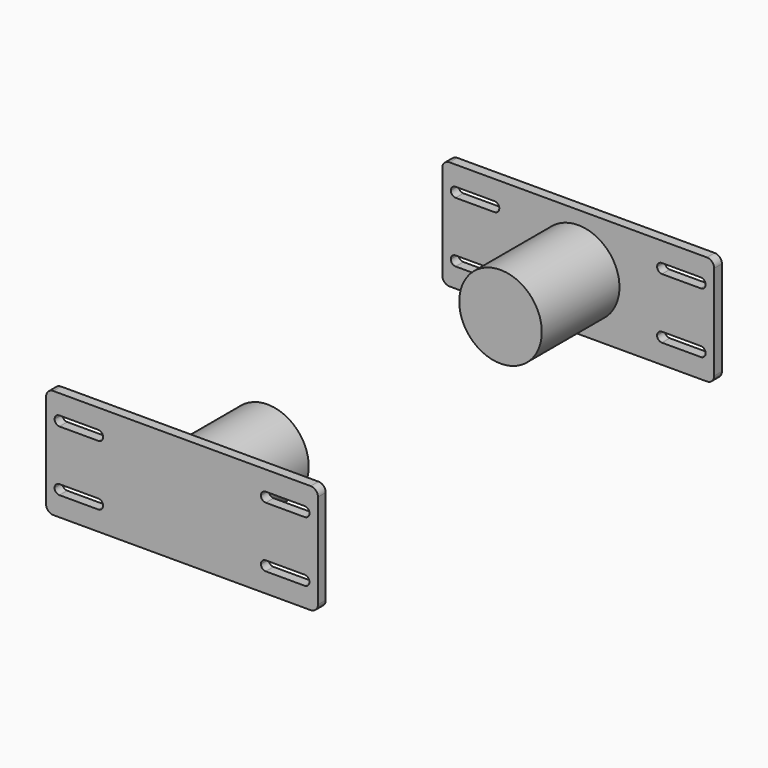
from build123d import *

# Parameters (mm, degrees)
F1_DEPTH = 4
F2_R     = 17
F3_DEPTH = 40


with BuildPart() as f1:
    # F0 (on Front) → F1 (new body)
    with BuildSketch(Plane.XZ):
        with BuildLine():
            ThreePointArc((56, 19.5), (55.12132, 21.62132), (53, 22.5))
            Line((53, 22.5), (-53, 22.5))
            ThreePointArc((-53, 22.5), (-55.12132, 21.62132), (-56, 19.5))
            Line((-56, 19.5), (-56, -19.5))
            ThreePointArc((-56, -19.5), (-55.12132, -21.62132), (-53, -22.5))
            Line((-53, -22.5), (53, -22.5))
            ThreePointArc((53, -22.5), (55.12132, -21.62132), (56, -19.5))
            Line((56, -19.5), (56, 19.5))
        make_face()
        with BuildLine():
            ThreePointArc((-34.5, -10.45), (-33.085786, -11.035786), (-32.5, -12.45))
            ThreePointArc((-32.5, -12.45), (-33.085786, -13.864214), (-34.5, -14.45))
            Line((-34.5, -14.45), (-50.5, -14.45))
            ThreePointArc((-50.5, -14.45), (-51.914214, -13.864214), (-52.5, -12.45))
            ThreePointArc((-52.5, -12.45), (-51.914214, -11.035786), (-50.5, -10.45))
            Line((-50.5, -10.45), (-34.5, -10.45))
        make_face(mode=Mode.SUBTRACT)
        with BuildLine():
            ThreePointArc((32.5, -12.45), (33.085786, -11.035786), (34.5, -10.45))
            Line((34.5, -10.45), (50.5, -10.45))
            ThreePointArc((50.5, -10.45), (51.914214, -11.035786), (52.5, -12.45))
            ThreePointArc((52.5, -12.45), (51.914214, -13.864214), (50.5, -14.45))
            Line((50.5, -14.45), (34.5, -14.45))
            ThreePointArc((34.5, -14.45), (33.085786, -13.864214), (32.5, -12.45))
        make_face(mode=Mode.SUBTRACT)
        with BuildLine():
            Line((-34.5, 10.45), (-50.5, 10.45))
            ThreePointArc((-50.5, 10.45), (-51.914214, 11.035786), (-52.5, 12.45))
            ThreePointArc((-52.5, 12.45), (-51.914214, 13.864214), (-50.5, 14.45))
            Line((-50.5, 14.45), (-34.5, 14.45))
            ThreePointArc((-34.5, 14.45), (-33.085786, 13.864214), (-32.5, 12.45))
            ThreePointArc((-32.5, 12.45), (-33.085786, 11.035786), (-34.5, 10.45))
        make_face(mode=Mode.SUBTRACT)
        with BuildLine():
            ThreePointArc((32.5, 12.45), (33.085786, 13.864214), (34.5, 14.45))
            Line((34.5, 14.45), (50.5, 14.45))
            ThreePointArc((50.5, 14.45), (51.914214, 13.864214), (52.5, 12.45))
            ThreePointArc((52.5, 12.45), (51.914214, 11.035786), (50.5, 10.45))
            Line((50.5, 10.45), (34.5, 10.45))
            ThreePointArc((34.5, 10.45), (33.085786, 11.035786), (32.5, 12.45))
        make_face(mode=Mode.SUBTRACT)
    extrude(amount=F1_DEPTH)

    # F2 (on face) → F3 (join)
    with BuildSketch(Plane(origin=(0, 0, 0), x_dir=(-1, 0, 0), z_dir=(0, 1, 0))):
        Circle(F2_R)
    extrude(amount=F3_DEPTH)


with BuildPart() as f5_1:
    # F5: instance of F1
    add(f1.part.mirror(Plane(origin=(0, 100, 0), x_dir=(1, 0, 0), z_dir=(0, 1, 0))))


solid = Compound([f1.part, f5_1.part])
